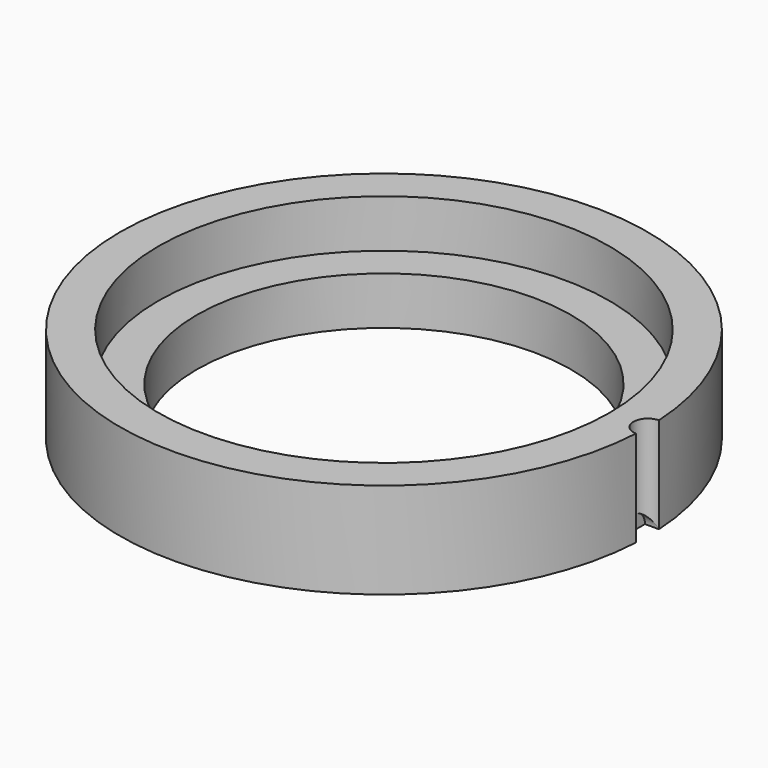
from build123d import *

# Parameters (mm, degrees)
SKETCH_R          = 27.5
SKETCH_R_2        = 19.5
PAD_DEPTH         = 10
SKETCH001_R       = 1.5
POCKET_DEPTH      = 10
SKETCH002_R       = 1.5
POCKET001_DEPTH   = 1.5
COPYSKETCH003_R   = 23.5
COPYSKETCH003_R_2 = 19.5
POCKET002_DEPTH   = 5


with BuildPart() as part:
    # Sketch → Pad (new body)
    with BuildSketch(Plane.XY):
        Circle(SKETCH_R)
        Circle(SKETCH_R_2, mode=Mode.SUBTRACT)
    extrude(amount=PAD_DEPTH)

    # Sketch001 → Pocket (cut)
    with BuildSketch(Plane(origin=(27.5, 0, 0), x_dir=(1, 0, 0), z_dir=(0, 0, 1))):
        Circle(SKETCH001_R)
    extrude(amount=POCKET_DEPTH, mode=Mode.SUBTRACT)

    # Sketch002 → Pocket001 (cut)
    with BuildSketch(Plane.YZ.offset(27.5)):
        Circle(SKETCH002_R)
    extrude(amount=-POCKET001_DEPTH, mode=Mode.SUBTRACT)

    # CopySketch003 → Pocket002 (cut)
    with BuildSketch(Plane.XY.offset(5)):
        Circle(COPYSKETCH003_R)
        Circle(COPYSKETCH003_R_2, mode=Mode.SUBTRACT)
    extrude(amount=POCKET002_DEPTH, mode=Mode.SUBTRACT)


solid = part.part
